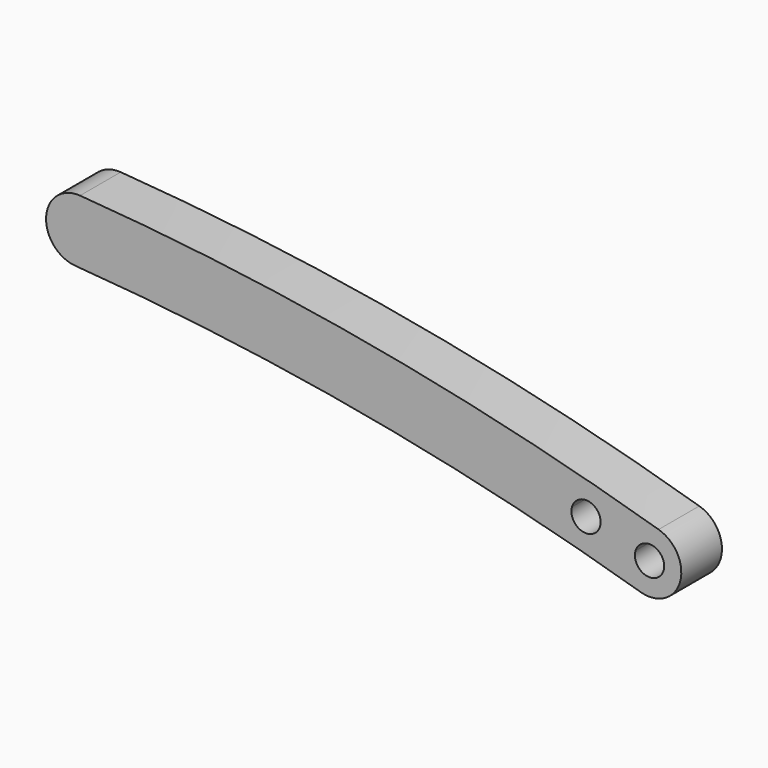
from build123d import *

# Parameters (mm, degrees)
F1_DEPTH = 4


with BuildPart() as f1:
    # F0 (on Front) → F1 (new body)
    with BuildSketch(Plane.XZ):
        with BuildLine():
            ThreePointArc((-1.102871, 0.325845), (-0.164618, -1.138157), (1.15, 0))
            ThreePointArc((1.15, 0), (0.164618, 1.138157), (-1.102871, 0.325845))
        make_face()
        with BuildLine():
            ThreePointArc((-0.714921, -2.395598), (2.395598, -0.714921), (0.714921, 2.395598))
            ThreePointArc((0.714921, 2.395598), (-21.825501, 7.803006), (-44.820793, 10.723144))
            ThreePointArc((-44.820793, 10.723144), (-47.493569, 8.408782), (-45.179207, 5.736007))
            ThreePointArc((-45.179207, 5.736007), (-22.72498, 2.884577), (-0.714921, -2.395598))
        make_face()
        with BuildLine():
            ThreePointArc((-1.102871, 0.325845), (0.164618, 1.138157), (1.15, 0))
            ThreePointArc((1.15, 0), (-0.164618, -1.138157), (-1.102871, 0.325845))
        make_face(mode=Mode.SUBTRACT)
        with BuildLine():
            ThreePointArc((-3.85, 1.424993), (-3.860309, 1.271355), (-3.891051, 1.120473))
            ThreePointArc((-3.891051, 1.120473), (-5.301483, 0.315214), (-6.1106, 1.723436))
            ThreePointArc((-6.1106, 1.723436), (-4.849484, 2.5651), (-3.85, 1.424993))
        make_face(mode=Mode.SUBTRACT)
    extrude(amount=F1_DEPTH)


solid = f1.part
